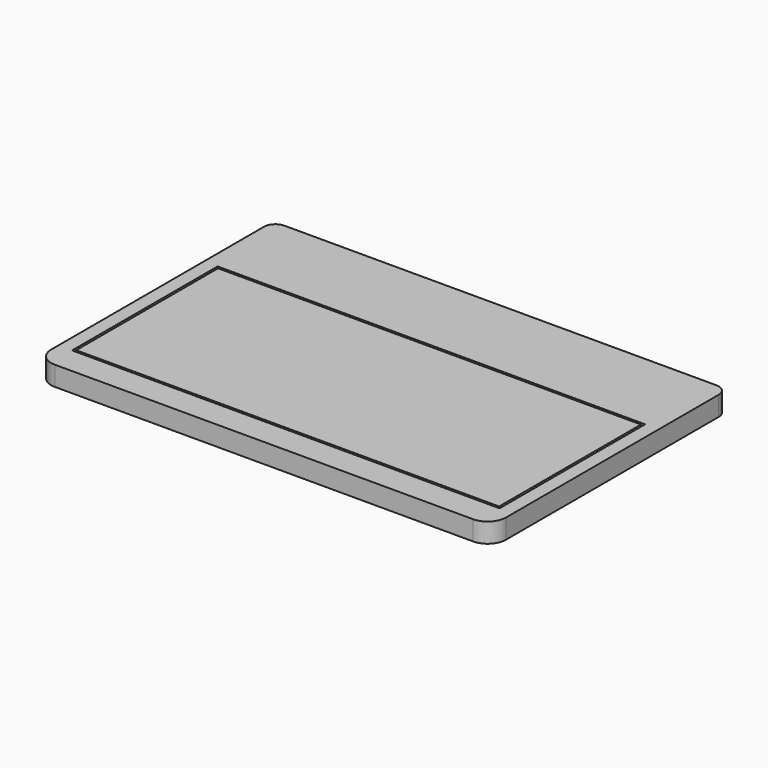
from build123d import *

# Parameters (mm, degrees)
F0_W     = 200
F0_H     = 130
F1_DEPTH = 8.6
F2_R     = 8
F3_R     = 5
F4_W     = 188
F4_H     = 80
F5_DEPTH = 2
F6_W     = 186
F6_H     = 78
F7_DEPTH = 2


with BuildPart() as f1:
    # F0 (on Top) → F1 (new body)
    with BuildSketch(Plane.XY):
        Rectangle(F0_W, F0_H)
    extrude(amount=F1_DEPTH)

    # F2
    f2_edges = [f1.edges().sort_by_distance(p)[0] for p in [
        (-100, -65, 4.3),
        (100, -65, 4.3),
    ]]
    fillet(f2_edges, radius=F2_R)

    # F3
    f3_edges = [f1.edges().sort_by_distance(p)[0] for p in [
        (100, 65, 4.3),
        (-100, 65, 4.3),
    ]]
    fillet(f3_edges, radius=F3_R)

    # F4 (on face) → F5 (cut)
    with BuildSketch(Plane.XY.offset(8.6)):
        with Locations((0, -13)):
            Rectangle(F4_W, F4_H)
    extrude(amount=-F5_DEPTH, mode=Mode.SUBTRACT)

    # F6 (on face) → F7 (join, through all)
    with BuildSketch(Plane.XY.offset(6.6)):
        with Locations((0, -13)):
            Rectangle(F6_W, F6_H)
    extrude(amount=F7_DEPTH)


solid = f1.part
